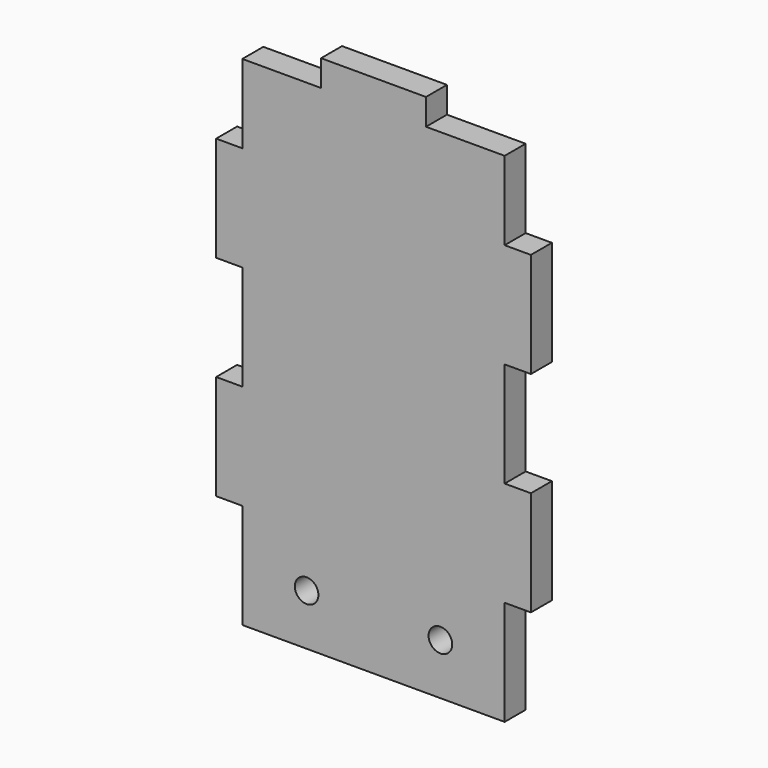
from build123d import *

# Parameters (mm, degrees)
F0_R     = 2.25
F1_DEPTH = 5


with BuildPart() as f1:
    # F0 (on Front) → F1 (new body)
    with BuildSketch(Plane.XZ):
        Polygon((25, 32.5), (25, 47.5), (10, 47.5), (10, 52.5), (-10, 52.5), (-10, 47.5), (-25, 47.5), (-25, 32.5), (-30, 32.5), (-30, 12.5), (-25, 12.5), (-25, -7.5), (-30, -7.5), (-30, -27.5), (-25, -27.5), (-25, -47.5), (25, -47.5), (25, -27.5), (30, -27.5), (30, -7.5), (25, -7.5), (25, 12.5), (30, 12.5), (30, 32.5), align=None)
        with Locations((-12.75, -37.75)):
            Circle(F0_R, mode=Mode.SUBTRACT)
        with Locations((12.75, -37.75)):
            Circle(F0_R, mode=Mode.SUBTRACT)
    extrude(amount=F1_DEPTH)


solid = f1.part
